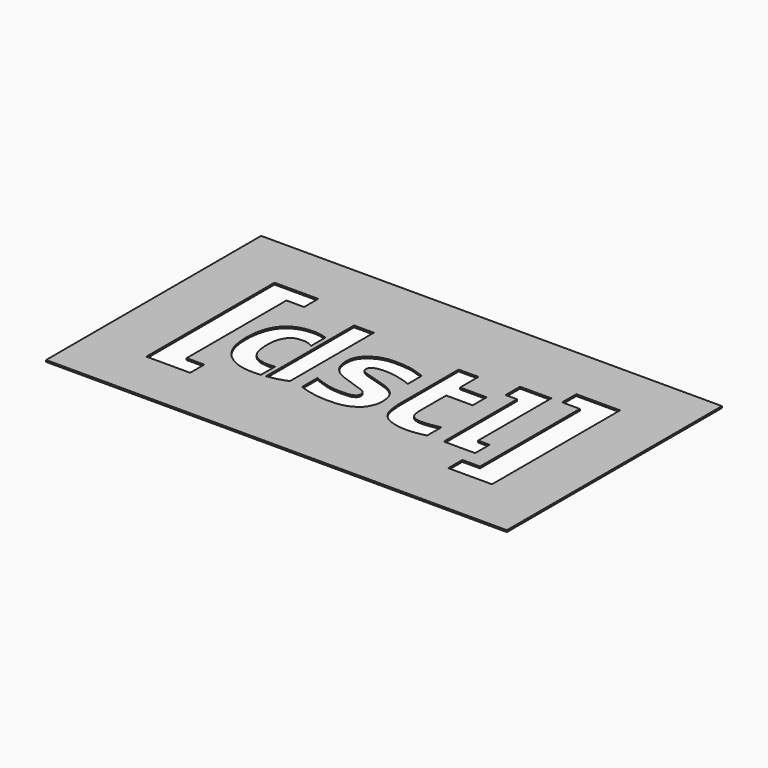
from build123d import *

# Parameters (mm, degrees)
F0_W     = 120
F0_H     = 70
F1_DEPTH = 0.45


with BuildPart() as f1:
    # F0 (on Top) → F1 (new body)
    with BuildSketch(Plane.XY):
        with Locations((45, -20.5940017916)):
            Rectangle(F0_W, F0_H)
        Polygon((0, -41.7), (0, 0), (11.4, 0), (11.4, -4.6), (6.8, -4.6), (6.8, -37.1), (11.4, -37.1), (11.4, -41.7), align=None, mode=Mode.SUBTRACT)
        with BuildLine():
            add(Edge.make_bspline(
                [(49.0244626999, -13.3191114292), (47.9252540228, -12.906444504), (45.8538191761, -12.1287826579), (43.2663612955, -11.8214869365), (39.5019255003, -11.631129664), (36.5730189912, -12.474864537), (34.4038092797, -14.0180676075), (33.2803945568, -15.5930284945), (32.9299313394, -17.3974807024), (33.0247430864, -19.2644407239), (33.5209522718, -20.8596497074), (34.7867749379, -22.4849974638), (36.6856103348, -23.7661448154), (43.3610194247, -25.835227061), (43.6360937065, -26.0009190891), (44.4483901258, -26.6274642223), (44.4191952723, -27.7079845936), (44.1482479669, -28.2800521941), (43.1848069992, -28.8696367955), (41.5439042842, -29.0236538432), (39.1831019682, -29.0416993352), (36.7331527398, -28.6512756574), (34.8529455055, -27.9989479915), (33.7116681039, -27.6340674609), (33.0519974232, -27.2688921541)],
                knots=[0, 0, 0, 0, 0.058697372, 0.110636302, 0.1722947346, 0.2284332174, 0.2798718904, 0.3236345653, 0.3664750805, 0.4100134235, 0.4512254168, 0.4946726294, 0.5470853711, 0.6298974275, 0.6496534035, 0.6796934664, 0.7119684935, 0.7367878326, 0.7691770555, 0.8102104611, 0.8598398129, 0.9104936405, 0.9550849744, 1, 1, 1, 1], degree=3))
            Line((49.0244626999, -13.3191114292), (49.0244626999, -17.9191114292))
            add(Edge.make_bspline(
                [(33.0519974232, -32.3688276112), (34.1448702365, -32.7791159149), (36.314967668, -33.3456194979), (39.4969050095, -33.8356604205), (43.1432406988, -33.7773095484), (45.8271296831, -33.174718956), (48.3165885612, -31.6492934267), (49.1983157044, -29.9710049135), (49.9420651714, -28.3049662333), (49.79063894, -25.4236511303), (49.0431184959, -23.5511442072), (47.5388875476, -22.13600504), (45.3640309594, -21.1075226691), (40.0694021947, -19.7898320167), (38.8075306127, -19.1806229476), (38.208696017, -18.4303924596), (38.2896539771, -17.6530204289), (38.6151905672, -17.1738203692), (39.2832700379, -16.6781449879), (40.7243338821, -16.3228659689), (43.0712727288, -16.3146254531), (45.3270845524, -16.6878851711), (47.081843861, -17.216618614), (48.3507692652, -17.5526122014), (49.0244626999, -17.9191114292)],
                knots=[0, 0, 0, 0, 0.058359039, 0.1154356138, 0.1754636421, 0.2284750487, 0.2813111382, 0.3239950225, 0.3664154319, 0.4195269018, 0.4644553309, 0.5077062304, 0.5583887508, 0.6322445019, 0.6696988518, 0.6985266315, 0.7252936001, 0.7488452919, 0.7766927527, 0.8147944532, 0.8637433809, 0.9118129111, 0.9543219664, 1, 1, 1, 1], degree=3))
            Line((33.0519974232, -32.3688276112), (33.0519974232, -27.2688921541))
        make_face(mode=Mode.SUBTRACT)
        Polygon((78.6, 0), (90, 0), (90, -41.7), (78.6, -41.7), (78.6, -37.1), (83.2, -37.1), (83.2, -4.6), (78.6, -4.6), align=None, mode=Mode.SUBTRACT)
        with BuildLine():
            Line((24.4, -12.945509365), (24.4, -4.5957448892))
            Line((24.4, -4.5957448892), (29.55, -4.5957448892))
            Line((29.55, -4.5957448892), (29.55, -31.8635366857))
            add(Edge.make_bspline(
                [(24.4, -33.273992168), (25.7004217309, -33.0922522053), (27.7272105077, -32.6338796797), (28.9837485789, -32.1028445251), (29.55, -31.8635366857)],
                knots=[0.8919132181, 0.8919132181, 0.8919132181, 0.8919132181, 0.9512913353, 1, 1, 1, 1], degree=3))
            add(Edge.make_bspline(
                [(23.2, -33.4152791466), (23.3678544551, -33.3992036896), (23.7773773577, -33.3560077475), (24.1712775661, -33.305957188), (24.4, -33.273992168)],
                knots=[0.8743711311, 0.8743711311, 0.8743711311, 0.8743711311, 0.8814696004, 0.8919132181, 0.8919132181, 0.8919132181, 0.8919132181], degree=3))
            add(Edge.make_bspline(
                [(23.2, -12.4184105557), (22.353955123, -12.0982391249), (20.300020209, -11.5945459591), (17.0381857044, -11.9837518911), (15.2882745219, -12.5928346976), (13.4525169563, -13.8091804411), (12.4090514075, -15.0976781805), (11.6457469539, -16.3928656673), (11.0475767308, -18.1975733355), (10.7397463029, -19.7474709206), (10.5494624236, -21.6780066895), (10.5907092319, -23.6852864971), (10.7317916801, -24.9786265639), (10.9252988791, -26.1331634083), (11.4326593609, -27.9805441503), (12.6853868333, -29.9349062983), (13.4927203062, -30.9317017708), (17.1614801598, -33.6005005571), (21.2917534357, -33.598032328), (23.2, -33.4152791466)],
                knots=[0.0221470182, 0.0221470182, 0.0221470182, 0.0221470182, 0.0688583105, 0.1342185984, 0.1815176197, 0.2318671344, 0.2762183375, 0.3184817512, 0.3657448359, 0.4094062146, 0.4576825166, 0.5069153015, 0.5459015542, 0.5826468585, 0.630912445, 0.6827142916, 0.721811061, 0.7936724702, 0.8743711311, 0.8743711311, 0.8743711311, 0.8743711311], degree=3))
            add(Edge.make_bspline(
                [(24.4, -12.945509365), (24.0000077478, -12.7467932611), (23.6011315118, -12.5702120186), (23.2, -12.4184105557)],
                knots=[0, 0, 0, 0, 0.0221470182, 0.0221470182, 0.0221470182, 0.0221470182], degree=3))
        make_face(mode=Mode.SUBTRACT)
        with BuildLine():
            Line((53.145006299, -26.1756554246), (53.145006299, -6.4838272519))
            Line((53.145006299, -6.4838272519), (58.3082959056, -6.4838272519))
            Line((58.3082959056, -6.4838272519), (58.3082959056, -12.4658066779))
            Line((58.3082959056, -12.4658066779), (65.2180537581, -12.4658066779))
            Line((65.2180537581, -12.4658066779), (65.2180537581, -16.9874373823))
            Line((65.2180537581, -16.9874373823), (58.3082959056, -16.9874373823))
            Line((58.3082959056, -16.9874373823), (58.3082959056, -25.7218927145))
            add(Edge.make_bspline(
                [(58.3082959056, -25.7218927145), (58.3334888825, -26.2973643936), (58.3827544385, -27.4227150129), (59.3116686079, -28.9341466626), (62.0281598419, -29.3490070761), (64.7435618449, -28.8348057875), (66.2991553545, -28.5402312875)],
                knots=[0, 0, 0, 0, 0.2083447249, 0.4074238121, 0.6605262606, 1, 1, 1, 1], degree=3))
            Line((66.2991553545, -28.5402312875), (66.2991553545, -33.1740155816))
            add(Edge.make_bspline(
                [(53.145006299, -26.1756554246), (53.2358369544, -27.4911719973), (53.409948025, -30.0128536688), (55.5148597984, -32.8072442601), (59.5941601298, -33.9744860927), (63.7570664009, -33.7975310959), (65.5239611327, -33.3641527612), (66.2991553545, -33.1740155816)],
                knots=[0, 0, 0, 0, 0.2071779154, 0.3971342991, 0.6130892101, 0.8302496446, 1, 1, 1, 1], degree=3))
        make_face(mode=Mode.SUBTRACT)
        Polygon((67.6088929176, -9.2706838623), (67.6088929176, -4.5832106844), (75.773589313, -4.5832106844), (75.773589313, -28.4363143146), (78.7517875433, -28.4363143146), (78.7517875433, -33.1237874925), (70.5870911479, -33.1237874925), (70.5870911479, -9.2706838623), align=None, mode=Mode.SUBTRACT)
        with BuildLine():
            Line((24.4, -17.8031000884), (24.4, -12.945509365))
            add(Edge.make_bspline(
                [(24.4, -12.945509365), (24.0000077478, -12.7467932611), (23.6011315118, -12.5702120186), (23.2, -12.4184105557)],
                knots=[0, 0, 0, 0, 0.0221470182, 0.0221470182, 0.0221470182, 0.0221470182], degree=3))
            Line((23.2, -12.4184105557), (23.2, -17.0455879614))
            add(Edge.make_bspline(
                [(24.4, -17.8031000884), (24.0022402396, -17.5399449322), (23.6059596063, -17.2765007792), (23.2, -17.0455879614)],
                knots=[0, 0, 0, 0, 0.0511785816, 0.0511785816, 0.0511785816, 0.0511785816], degree=3))
        make_face()
        with BuildLine():
            Line((24.4, -28.2964663305), (24.4, -17.8031000884))
            add(Edge.make_bspline(
                [(24.4, -17.8031000884), (24.0022402396, -17.5399449322), (23.6059596063, -17.2765007792), (23.2, -17.0455879614)],
                knots=[0, 0, 0, 0, 0.0511785816, 0.0511785816, 0.0511785816, 0.0511785816], degree=3))
            add(Edge.make_bspline(
                [(23.2, -17.0455879614), (22.7516360262, -16.7905552266), (21.4678852314, -16.1897862791), (19.2063290642, -16.2688510227), (17.5676310689, -16.8768174376), (16.1215821339, -19.077462511), (15.7954970165, -21.9061888295), (16.0875859247, -25.8206750037), (17.7102939979, -28.2053442092), (20.5074421883, -29.0313779131), (22.5106455816, -28.9201136135), (23.2, -28.7617774098)],
                knots=[0.0511785816, 0.0511785816, 0.0511785816, 0.0511785816, 0.1077030039, 0.2088663507, 0.2900991208, 0.3876303429, 0.4950144775, 0.6186836084, 0.7216787831, 0.8280179533, 0.9270929098, 0.9270929098, 0.9270929098, 0.9270929098], degree=3))
            add(Edge.make_bspline(
                [(23.2, -28.7617774098), (23.2258245155, -28.7558458373), (23.7254739394, -28.6364441767), (24.068939705, -28.4613592858), (24.4, -28.2964663305)],
                knots=[0.9270929098, 0.9270929098, 0.9270929098, 0.9270929098, 0.9308044443, 1, 1, 1, 1], degree=3))
        make_face()
        with BuildLine():
            add(Edge.make_bspline(
                [(23.2, -33.4152791466), (23.3678544551, -33.3992036896), (23.7773773577, -33.3560077475), (24.1712775661, -33.305957188), (24.4, -33.273992168)],
                knots=[0.8743711311, 0.8743711311, 0.8743711311, 0.8743711311, 0.8814696004, 0.8919132181, 0.8919132181, 0.8919132181, 0.8919132181], degree=3))
            Line((24.4, -33.273992168), (24.4, -28.2964663305))
            add(Edge.make_bspline(
                [(23.2, -28.7617774098), (23.2258245155, -28.7558458373), (23.7254739394, -28.6364441767), (24.068939705, -28.4613592858), (24.4, -28.2964663305)],
                knots=[0.9270929098, 0.9270929098, 0.9270929098, 0.9270929098, 0.9308044443, 1, 1, 1, 1], degree=3))
            Line((23.2, -28.7617774098), (23.2, -33.4152791466))
        make_face()
    extrude(amount=F1_DEPTH)


solid = f1.part
